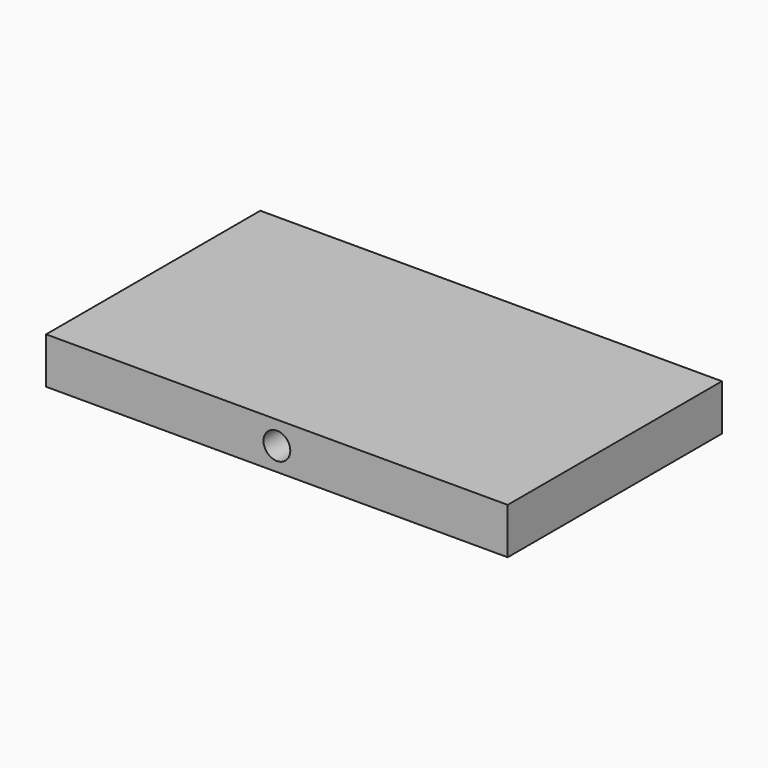
from build123d import *

# Parameters (mm, degrees)
F0_W     = 50
F0_H     = 29
F1_DEPTH = 5
F2_R     = 1.45
F3_DEPTH = 38.6


with BuildPart() as f1:
    # F0 (on Top) → F1 (new body)
    with BuildSketch(Plane.XY):
        Rectangle(F0_W, F0_H)
    extrude(amount=F1_DEPTH)

    # F2 (on face) → F3 (cut)
    with BuildSketch(Plane.XZ.offset(14.5)):
        with Locations((0, 2.5)):
            Circle(F2_R)
    extrude(amount=-F3_DEPTH, mode=Mode.SUBTRACT)


solid = f1.part
